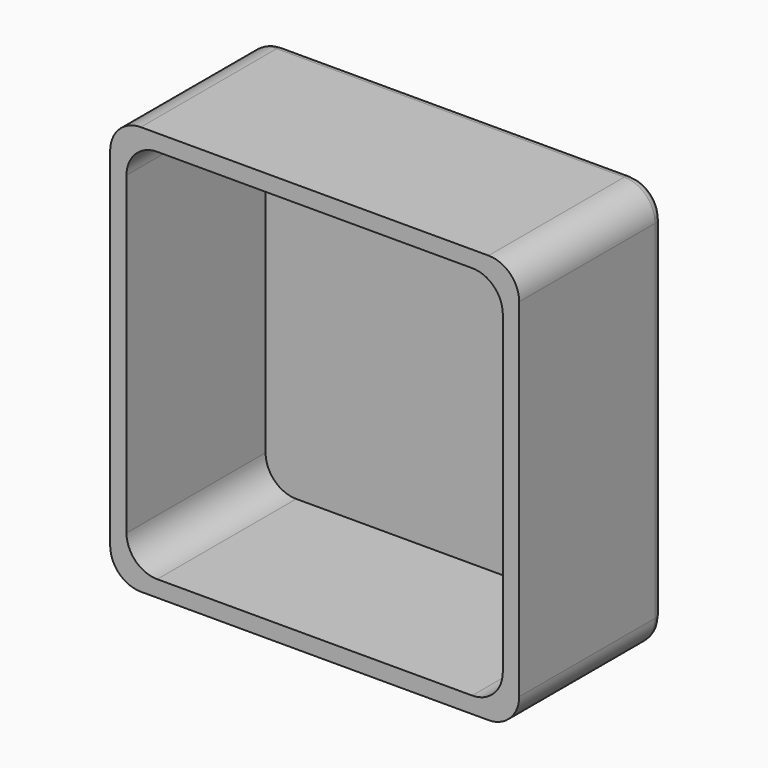
from build123d import *

# Parameters (mm, degrees)
F0_W     = 200
F0_H     = 200
F0_W_2   = 184
F0_H_2   = 184
F1_DEPTH = 85
F2_R     = 15
F4_DEPTH = 3
F5_R     = 5


with BuildPart() as f1:
    # F0 (on Front) → F1 (new body)
    with BuildSketch(Plane.XZ):
        Rectangle(F0_W, F0_H)
        Rectangle(F0_W_2, F0_H_2, mode=Mode.SUBTRACT)
    extrude(amount=F1_DEPTH)

    # F2
    f2_edges = [f1.edges().sort_by_distance(p)[0] for p in [
        (-100, -42.5, 100),
        (-92, -42.5, 92),
        (100, -42.5, 100),
        (92, -42.5, 92),
        (100, -42.5, -100),
        (92, -42.5, -92),
        (-92, -42.5, -92),
        (-100, -42.5, -100),
    ]]
    fillet(f2_edges, radius=F2_R)

    # F3 (on face) → F4 (join)
    with BuildSketch(Plane(origin=(0, 0, 0), x_dir=(-1, 0, 0), z_dir=(0, 1, 0))):
        with BuildLine():
            Line((-85, -100), (85, -100))
            ThreePointArc((85, -100), (95.606602, -95.606602), (100, -85))
            Line((100, -85), (100, 85))
            ThreePointArc((100, 85), (95.606602, 95.606602), (85, 100))
            Line((85, 100), (-85, 100))
            ThreePointArc((-85, 100), (-95.606602, 95.606602), (-100, 85))
            Line((-100, 85), (-100, -85))
            ThreePointArc((-100, -85), (-95.606602, -95.606602), (-85, -100))
        make_face()
    extrude(amount=F4_DEPTH)

    # F5
    f5_edges = [f1.edges().sort_by_distance(p)[0] for p in [
        (95.606602, 3, -95.606602),
    ]]
    fillet(f5_edges, radius=F5_R)


solid = f1.part
